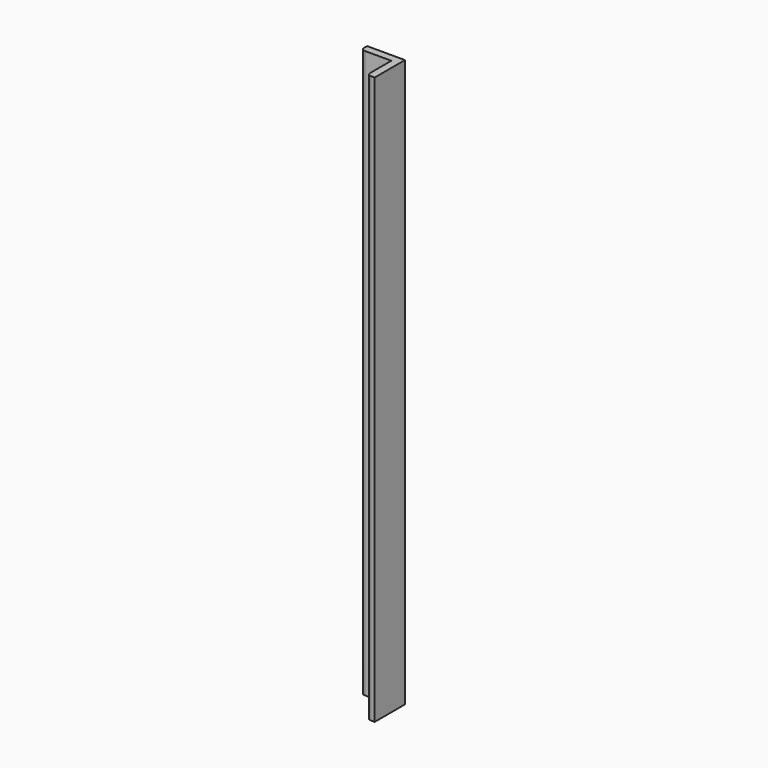
from build123d import *

# Parameters (mm, degrees)
BOX001_W     = 40
BOX001_H     = 40
BOX001_DEPTH = 750
BOX_W        = 50
BOX_H        = 50
BOX_DEPTH    = 750
FILLET_R     = 5
FILLET001_R  = 5


with BuildPart() as box001:
    # Box001 → Box001 (new body)
    with BuildSketch(Plane.XY):
        with Locations((20, 20)):
            Rectangle(BOX001_W, BOX001_H)
    extrude(amount=BOX001_DEPTH)


with BuildPart() as fillet001:
    # Box → Box (new body)
    with BuildSketch(Plane.XY):
        with Locations((25, 25)):
            Rectangle(BOX_W, BOX_H)
    extrude(amount=BOX_DEPTH)

    # Cut: cut Box001
    add(box001.part, mode=Mode.SUBTRACT)

    # Fillet
    fillet_edges = [fillet001.edges().sort_by_distance(p)[0] for p in [
        (40, 0, 375),
    ]]
    fillet(fillet_edges, radius=FILLET_R)

    # Fillet001
    fillet001_edges = [fillet001.edges().sort_by_distance(p)[0] for p in [
        (0, 40, 375),
    ]]
    fillet(fillet001_edges, radius=FILLET001_R)


solid = fillet001.part
